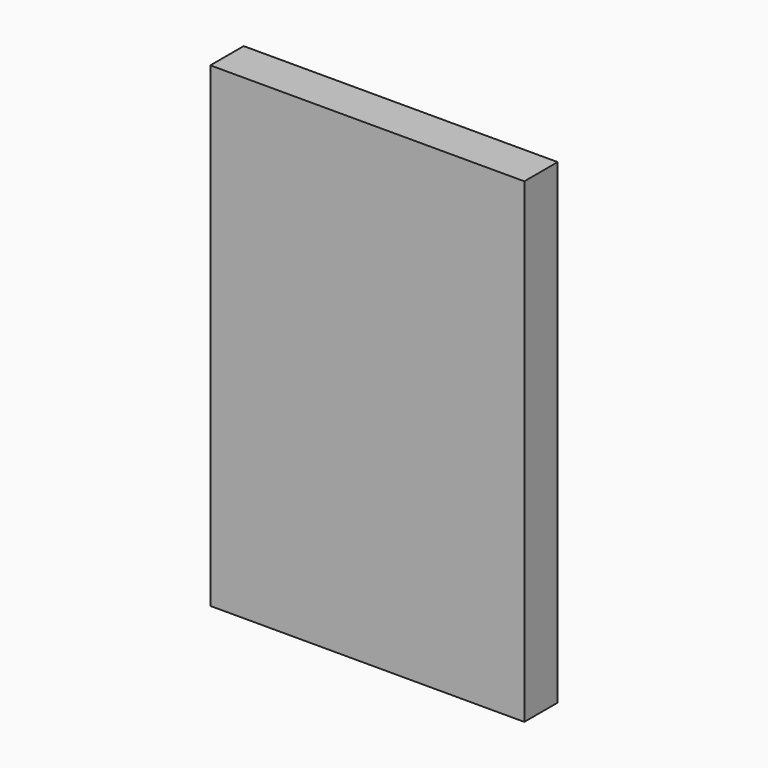
from build123d import *

# Parameters (mm, degrees)
F0_W     = 103.2518744469
F0_H     = 97.4576771259
F1_DEPTH = 50.8
F2_DEPTH = 279.4
F3_DEPTH = 482.6


with BuildPart() as f1:
    # F0 (on Front) → F1 (new body)
    with BuildSketch(Plane.XZ):
        Rectangle(F0_W, F0_H)
    extrude(amount=F1_DEPTH)

    # F2 (add): a face of the model
    f2_faces = [f1.faces().sort_by_distance(p)[0] for p in [
        (51.6259372234, -25.4, 0),
    ]]
    extrude(f2_faces, amount=F2_DEPTH)

    # F3 (add): a face of the model
    f3_faces = [f1.faces().sort_by_distance(p)[0] for p in [
        (139.7, -25.4, 48.728838563),
    ]]
    extrude(f3_faces, amount=F3_DEPTH)


solid = f1.part
